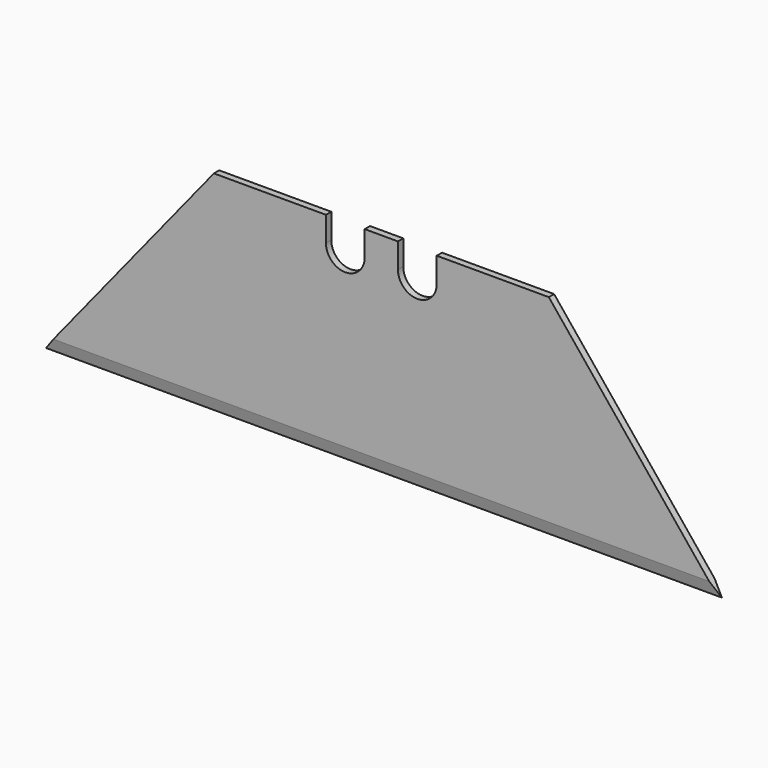
from build123d import *

# Parameters (mm, degrees)
F1_DEPTH      = 0.6
F3_DEPTH      = 30.501
F3_DEPTH_BACK = 30.501


with BuildPart() as f1:
    # F0 (on Front) → F1 (new body)
    with BuildSketch(Plane.XZ):
        with BuildLine():
            Line((30.5, -9.5), (15.1141033693, 9.5))
            Line((15.1141033693, 9.5), (5, 9.5))
            Line((5, 9.5), (5, 7.25))
            ThreePointArc((5, 7.25), (3.25, 5.5), (1.5, 7.25))
            Line((1.5, 7.25), (1.5, 9.5))
            Line((1.5, 9.5), (-1.5, 9.5))
            Line((-1.5, 9.5), (-1.5, 7.25))
            ThreePointArc((-1.5, 7.25), (-3.25, 5.5), (-5, 7.25))
            Line((-5, 7.25), (-5, 9.5))
            Line((-5, 9.5), (-15.1141033693, 9.5))
            Line((-15.1141033693, 9.5), (-30.5, -9.5))
            Line((-30.5, -9.5), (30.5, -9.5))
        make_face()
    extrude(amount=F1_DEPTH)

    # F2 (on Right) → F3 (cut, two sides)
    with BuildSketch(Plane.YZ) as f3_sk:
        Polygon((-0.6, -9.5), (-0.3, -9.5), (-0.6, -8.3803847577), align=None)
        Polygon((-0.3, -9.5), (0, -9.5), (0, -8.3803847577), align=None)
    extrude(amount=-F3_DEPTH, mode=Mode.SUBTRACT)
    extrude(f3_sk.sketch, amount=F3_DEPTH_BACK, mode=Mode.SUBTRACT)


solid = f1.part
